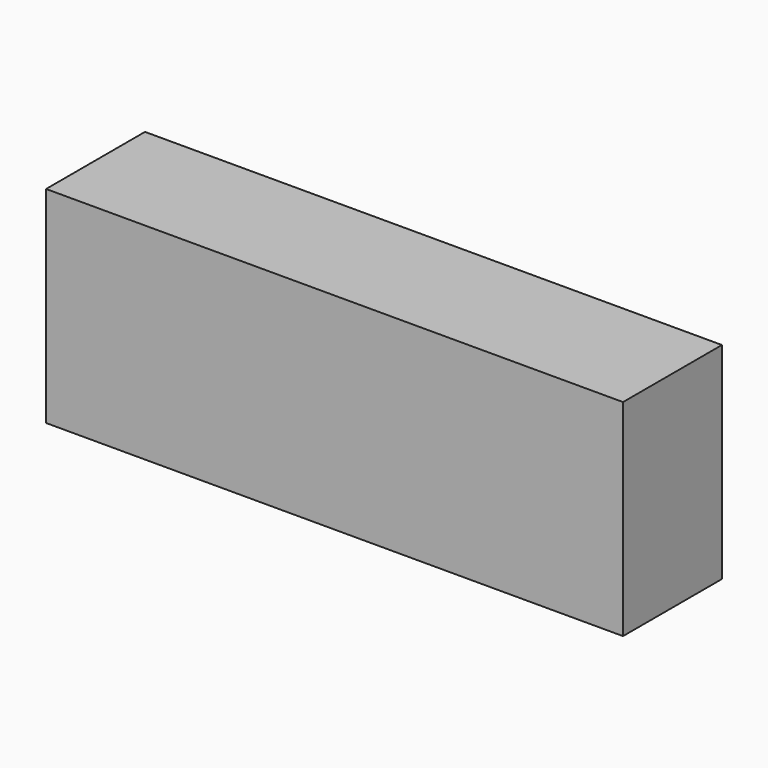
from build123d import *

# Parameters (mm, degrees)
SKETCH_W      = 140
SKETCH_H      = 30
EXTRUDE_DEPTH = 50


with BuildPart() as part:
    # Sketch → Extrude (new body)
    with BuildSketch(Plane.XY):
        Rectangle(SKETCH_W, SKETCH_H)
    extrude(amount=EXTRUDE_DEPTH)


solid = part.part
